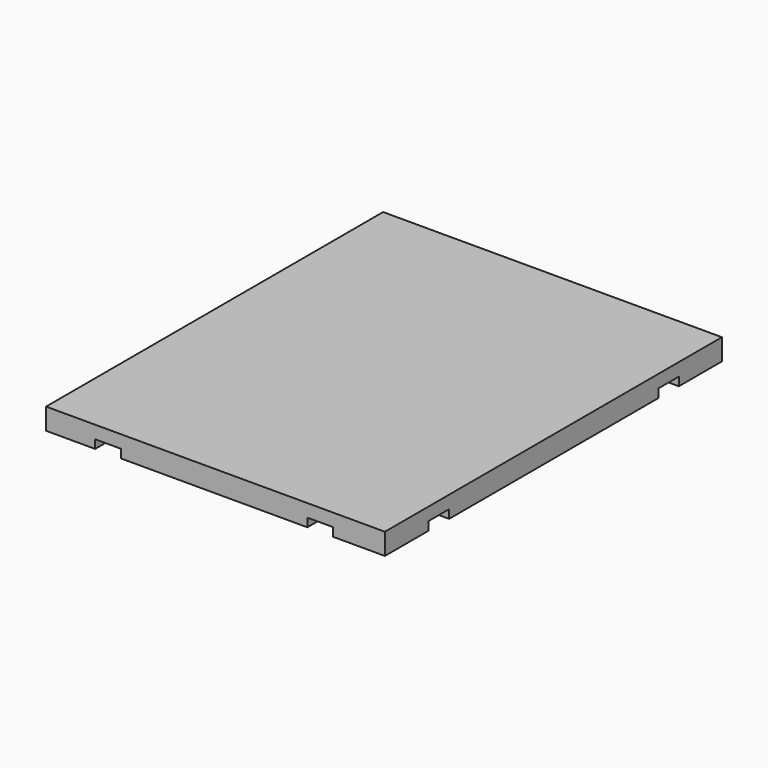
from build123d import *

# Parameters (mm, degrees)
SKETCH_W        = 79.4
SKETCH_H        = 98.73
PAD_DEPTH       = 5
SKETCH002_W     = 69.4
SKETCH002_H     = 88.73
SKETCH002_W_2   = 65.4
SKETCH002_H_2   = 84.73
POCKET_DEPTH    = 2
SKETCH003_W     = 93.532375
SKETCH003_H     = 6
POCKET001_DEPTH = 2
SKETCH005_W     = 100.384567
SKETCH005_H     = 6
POCKET002_DEPTH = 2
SKETCH006_W     = 6
SKETCH006_H     = 113.061115
SKETCH006_H_2   = 111.176766
POCKET003_DEPTH = 2


with BuildPart() as part:
    # Sketch → Pad (new body)
    with BuildSketch(Plane.XY):
        Rectangle(SKETCH_W, SKETCH_H)
    extrude(amount=PAD_DEPTH)

    # Sketch002 → Pocket (cut)
    with BuildSketch(Plane(origin=(0, 0, 0), x_dir=(1, 0, 0), z_dir=(0, 0, -1))):
        Rectangle(SKETCH002_W, SKETCH002_H)
        Rectangle(SKETCH002_W_2, SKETCH002_H_2, mode=Mode.SUBTRACT)
    extrude(amount=-POCKET_DEPTH, mode=Mode.SUBTRACT)

    # Sketch003 (on Face16 of Pocket) → Pocket001 (cut)
    with BuildSketch(Plane(origin=(0, 0, 0), x_dir=(1, 0, 0), z_dir=(0, 0, -1))):
        with Locations((1.623375, 33.547611)):
            Rectangle(SKETCH003_W, SKETCH003_H)
    extrude(amount=-POCKET001_DEPTH, mode=Mode.SUBTRACT)

    # Sketch005 (on Face23 of Pocket001) → Pocket002 (cut)
    with BuildSketch(Plane(origin=(0, 0, 0), x_dir=(1, 0, 0), z_dir=(0, 0, -1))):
        with Locations((1.62792, -33.744774)):
            Rectangle(SKETCH005_W, SKETCH005_H)
    extrude(amount=-POCKET002_DEPTH, mode=Mode.SUBTRACT)

    # Sketch006 (on Face30 of Pocket002) → Pocket003 (cut)
    with BuildSketch(Plane(origin=(0, 0, 0), x_dir=(1, 0, 0), z_dir=(0, 0, -1))):
        with Locations((-25.195084, -4.192632)):
            Rectangle(SKETCH006_W, SKETCH006_H)
        with Locations((24.535048, -3.079151)):
            Rectangle(SKETCH006_W, SKETCH006_H_2)
    extrude(amount=-POCKET003_DEPTH, mode=Mode.SUBTRACT)


solid = part.part
